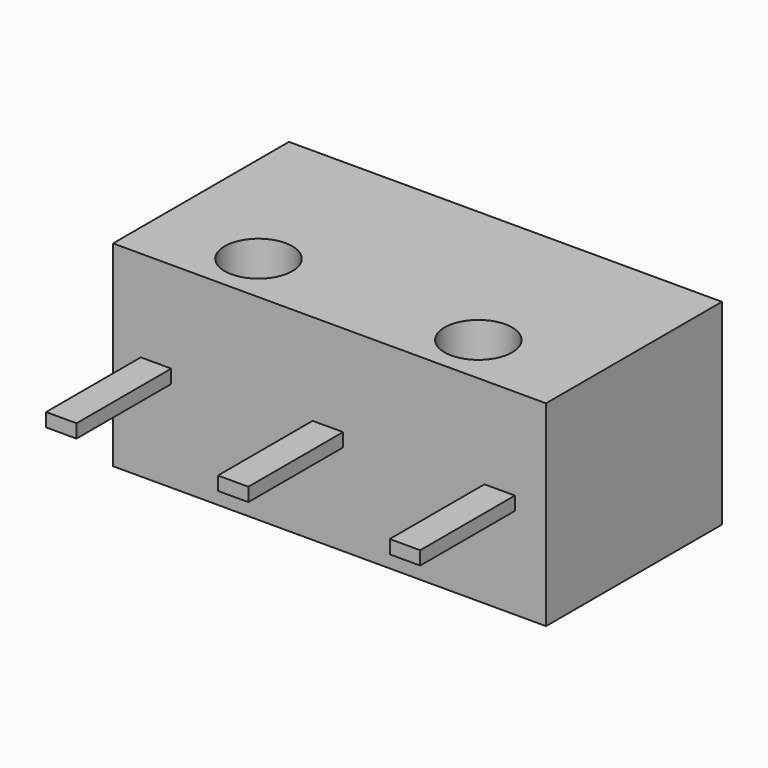
from build123d import *

# Parameters (mm, degrees)
F0_W     = 12.8
F0_H     = 6.5
F0_R     = 1
F1_DEPTH = 5.8
F4_W     = 0.9
F4_H     = 3.5
F5_DEPTH = 0.4
F2_W     = 1.2
F2_H     = 2.9
F6_DEPTH = 0.5
F7_R     = 0.4


with BuildPart() as f1:
    # F0 (on Top) → F1 (new body)
    with BuildSketch(Plane.XY):
        with Locations((0.05, 0)):
            Rectangle(F0_W, F0_H)
        with Locations((-3.25, -1.75)):
            Circle(F0_R, mode=Mode.SUBTRACT)
        with Locations((3.25, -1.75)):
            Circle(F0_R, mode=Mode.SUBTRACT)
    extrude(amount=F1_DEPTH)

    # F4 (on offset) → F5 (join)
    with BuildSketch(Plane.XY.offset(2.7)):
        with Locations((-5.08, -5)):
            Rectangle(F4_W, F4_H)
        with Locations((0, -5)):
            Rectangle(F4_W, F4_H)
        with Locations((5.08, -5)):
            Rectangle(F4_W, F4_H)
    extrude(amount=F5_DEPTH)

    # F2 (on face) → F6 (join)
    with BuildSketch(Plane(origin=(0, 3.25, 0), x_dir=(-1, 0, 0), z_dir=(0, 1, 0))):
        with Locations((1.75, 2.95)):
            Rectangle(F2_W, F2_H)
    extrude(amount=F6_DEPTH)

    # F7
    f7_edges = [f1.edges().sort_by_distance(p)[0] for p in [
        (-2.35, 3.75, 2.95),
        (-1.15, 3.75, 2.95),
    ]]
    fillet(f7_edges, radius=F7_R)


solid = f1.part
